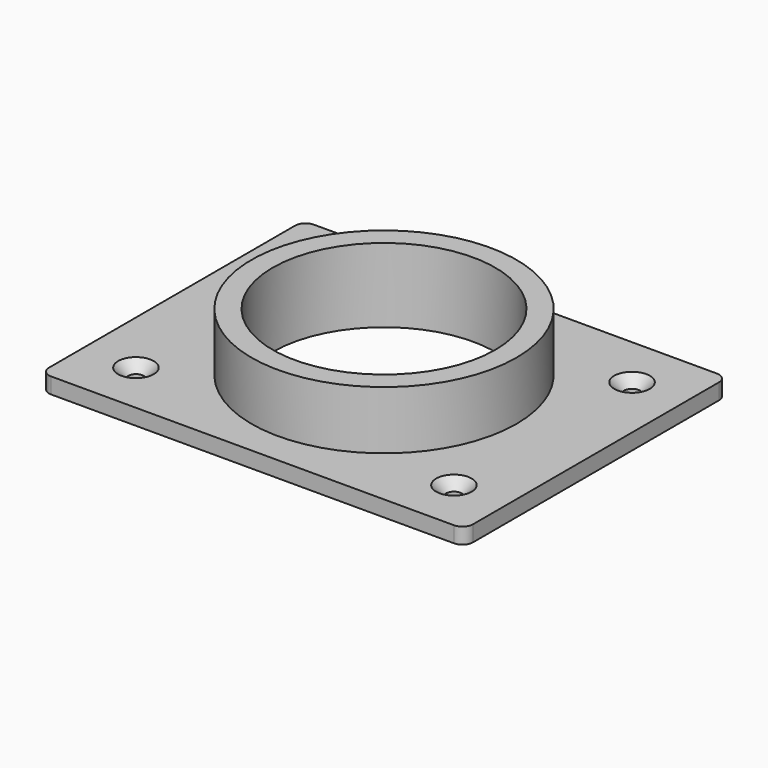
from build123d import *

# Parameters (mm, degrees)
F0_R           = 25
F0_R_2         = 21
F1_DEPTH       = 14
F0_W           = 80
F0_H           = 62
F2_DEPTH       = 3
F3_R           = 2
F5_D           = 3
F5_CSINK_D     = 6.72
F5_CSINK_ANGLE = 90


with BuildPart() as f1:
    # F0 (on Top) → F1 (new body)
    with BuildSketch(Plane.XY):
        Circle(F0_R)
        Circle(F0_R_2, mode=Mode.SUBTRACT)
    extrude(amount=F1_DEPTH)

    # F0 (on Top) → F2 (join)
    with BuildSketch(Plane.XY):
        Rectangle(F0_W, F0_H)
        Circle(F0_R, mode=Mode.SUBTRACT)
    extrude(amount=F2_DEPTH)

    # F3
    f3_edges = [f1.edges().sort_by_distance(p)[0] for p in [
        (-40, -31, 1.5),
        (40, -31, 1.5),
        (40, 31, 1.5),
        (-40, 31, 1.5),
    ]]
    fillet(f3_edges, radius=F3_R)

    # F5 (through all)
    with Locations(Plane.XY.offset(3)):
        with Locations((-30, 21), (-30, -21), (30, -21), (30, 21)):
            CounterSinkHole(F5_D / 2, F5_CSINK_D / 2, counter_sink_angle=F5_CSINK_ANGLE)


solid = f1.part
